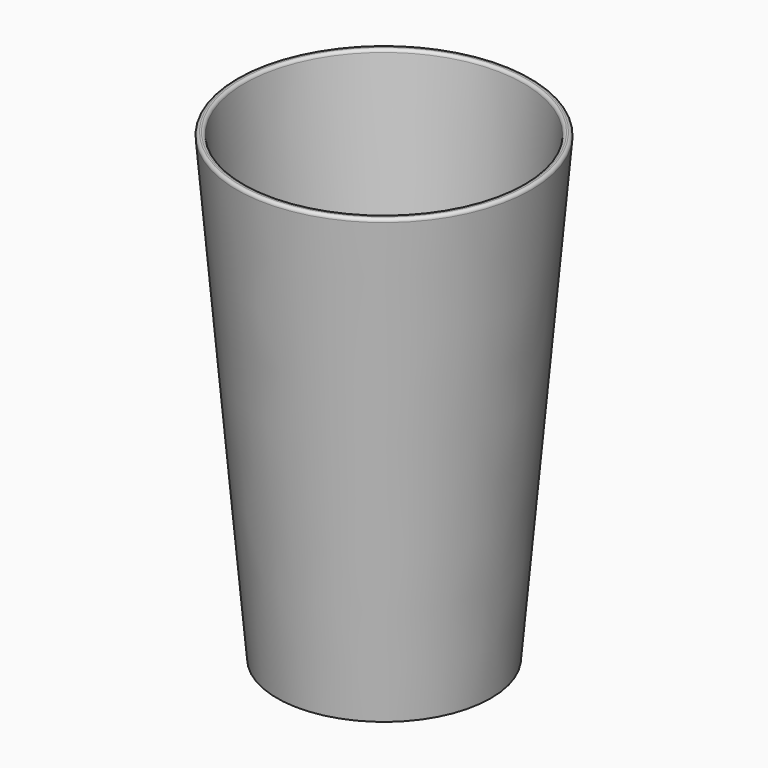
from build123d import *

# Parameters (mm, degrees)
F0_R     = 34.5834158621
F1_DEPTH = 150
F1_TAPER = -5
F2_T     = -2.5
F3_R     = 1


with BuildPart() as f1:
    # F0 (on Top) → F1 (new body)
    with BuildSketch(Plane.XY):
        Circle(F0_R)
    extrude(amount=F1_DEPTH, taper=F1_TAPER)

    # F2
    f2_openings = [f1.faces().sort_by_distance(p)[0] for p in [
        (0, 0, 150),
    ]]
    offset(amount=F2_T, openings=f2_openings, kind=Kind.INTERSECTION)

    # F3
    f3_edges = [f1.edges().sort_by_distance(p)[0] for p in [
        (-47.706715, 0, 150),
        (-45.197166, 0, 150),
    ]]
    fillet(f3_edges, radius=F3_R)


solid = f1.part
